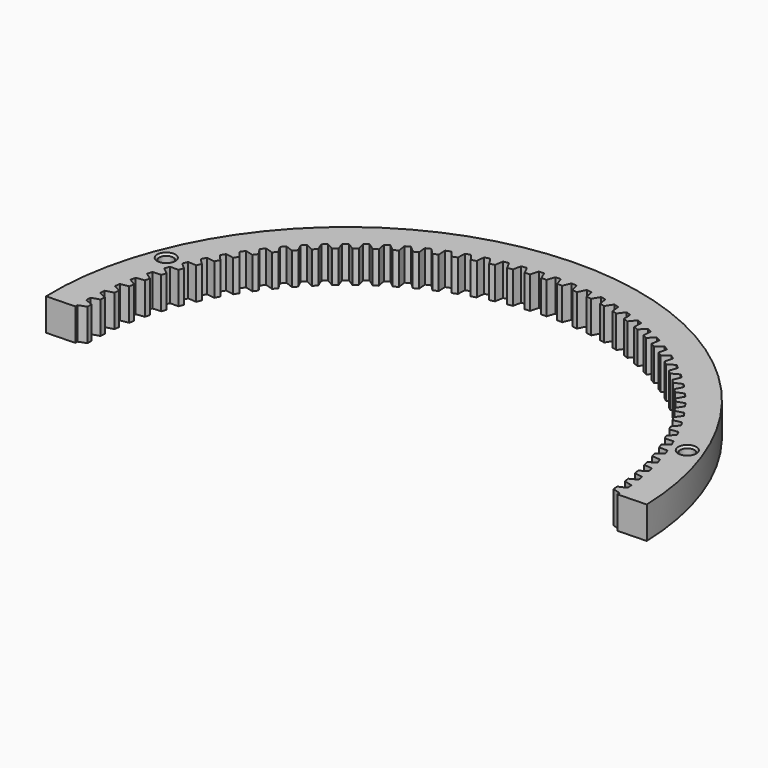
from build123d import *

# Parameters (mm, degrees)
SKETCH001_R           = 73
SKETCH001_R_2         = 63.932
PAD_DEPTH             = 8
POCKET_DEPTH          = 421.261209
POLARPATTERN_COUNT    = 102
SKETCH002_R           = 1.75
POCKET001_DEPTH       = 421.261209
POLARPATTERN001_COUNT = 2
CHAMFER_SIZE          = 0.5
POCKET002_DEPTH       = 8.001


with BuildPart() as part:
    # Sketch001 → Pad (new body)
    with BuildSketch(Plane.XY):
        Circle(SKETCH001_R)
        Circle(SKETCH001_R_2, mode=Mode.SUBTRACT)
    extrude(amount=PAD_DEPTH)

    # Sketch → Pocket (cut, through all)
    with BuildSketch(Plane.XY.offset(8)):
        with BuildLine():
            Line((-0.641475, 65.891765), (0.641475, 65.891765))
            ThreePointArc((1.32706, 63.918225), (1.006412, 64.912688), (0.641475, 65.891765))
            ThreePointArc((-1.32706, 63.918225), (0, 62.138321), (1.32706, 63.918225))
            ThreePointArc((-0.641475, 65.891765), (-1.006412, 64.912688), (-1.32706, 63.918225))
        make_face()
    pocket = extrude(amount=-POCKET_DEPTH, mode=Mode.SUBTRACT)

    # PolarPattern: Pocket ×102 about axis
    polarpattern_axis = Axis((0, 0, 8), (0, 0, 1))
    for i in range(1, POLARPATTERN_COUNT):
        add(pocket.rotate(polarpattern_axis, i * 360 / POLARPATTERN_COUNT), mode=Mode.SUBTRACT)

    # Sketch002 → Pocket001 (cut, through all)
    with BuildSketch(Plane.XY.offset(8)):
        with Locations((64.847899, 25)):
            Circle(SKETCH002_R)
        with Locations((-64.847899, 25)):
            Circle(SKETCH002_R)
    pocket001 = extrude(amount=-POCKET001_DEPTH, mode=Mode.SUBTRACT)

    # PolarPattern001: Pocket001 ×2 about axis
    polarpattern001_axis = Axis((0, 0, 8), (0, 0, 1))
    for i in range(1, POLARPATTERN001_COUNT):
        add(pocket001.rotate(polarpattern001_axis, i * 360 / POLARPATTERN001_COUNT), mode=Mode.SUBTRACT)

    # Chamfer
    chamfer_edges = [part.edges().sort_by_distance(p)[0] for p in [
        (-66.597899, 25, 8),
        (66.597899, -25, 8),
        (63.097899, 25, 8),
        (-63.097899, -25, 8),
    ]]
    chamfer(chamfer_edges, length=CHAMFER_SIZE)

    # Sketch003 → Pocket002 (cut, through all)
    with BuildSketch(Plane.XY.offset(8)):
        with BuildLine():
            Line((0, 0), (100.172468, 3.086279))
            ThreePointArc((-100.172468, -3.086279), (3.086279, -100.172468), (100.172468, 3.086279))
            Line((-100.172468, -3.086279), (0, 0))
        make_face()
    extrude(amount=-POCKET002_DEPTH, mode=Mode.SUBTRACT)


solid = part.part
